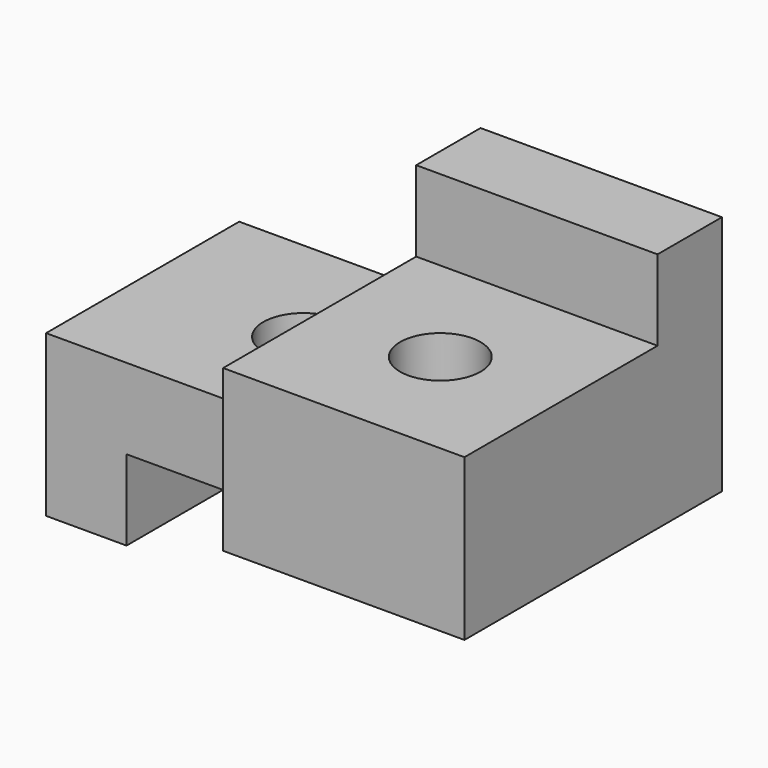
from build123d import *

# Parameters (mm, degrees)
F0_W      = 6.35
F0_H      = 19.05
F1_DEPTH  = 6.35
F2_W      = 19.05
F2_H      = 19.05
F3_DEPTH  = 6.35
F4_W      = 25.4
F4_H      = 19.05
F5_DEPTH  = 19.05
F6_W      = 19.05
F6_H      = 19.05
F7_DEPTH  = 6.35
F8_R      = 3.175
F9_DEPTH  = 25.4
F10_R     = 3.175
F11_DEPTH = 25.4


with BuildPart() as f1:
    # F0 (on Top) → F1 (new body)
    with BuildSketch(Plane.XY):
        with Locations((3.175, 9.525)):
            Rectangle(F0_W, F0_H)
    extrude(amount=F1_DEPTH)

    # F2 (on face) → F3 (join)
    with BuildSketch(Plane.XY.offset(6.35)):
        with Locations((9.525, 9.525)):
            Rectangle(F2_W, F2_H)
    extrude(amount=F3_DEPTH)

    # F4 (on face) → F5 (join)
    with BuildSketch(Plane.YZ.offset(19.05)):
        with Locations((6.35, 15.875)):
            Rectangle(F4_W, F4_H)
    extrude(amount=F5_DEPTH)

    # F6 (on face) → F7 (cut)
    with BuildSketch(Plane.XY.offset(25.4)):
        with Locations((28.575, 3.175)):
            Rectangle(F6_W, F6_H)
    extrude(amount=-F7_DEPTH, mode=Mode.SUBTRACT)

    # F8 (on face) → F9 (cut)
    with BuildSketch(Plane.XY.offset(12.7)):
        with Locations((12.7, 9.525)):
            Circle(F8_R)
    extrude(amount=-F9_DEPTH, mode=Mode.SUBTRACT)

    # F10 (on face) → F11 (cut)
    with BuildSketch(Plane.XY.offset(19.05)):
        with Locations((28.575, 3.175)):
            Circle(F10_R)
    extrude(amount=-F11_DEPTH, mode=Mode.SUBTRACT)


solid = f1.part
